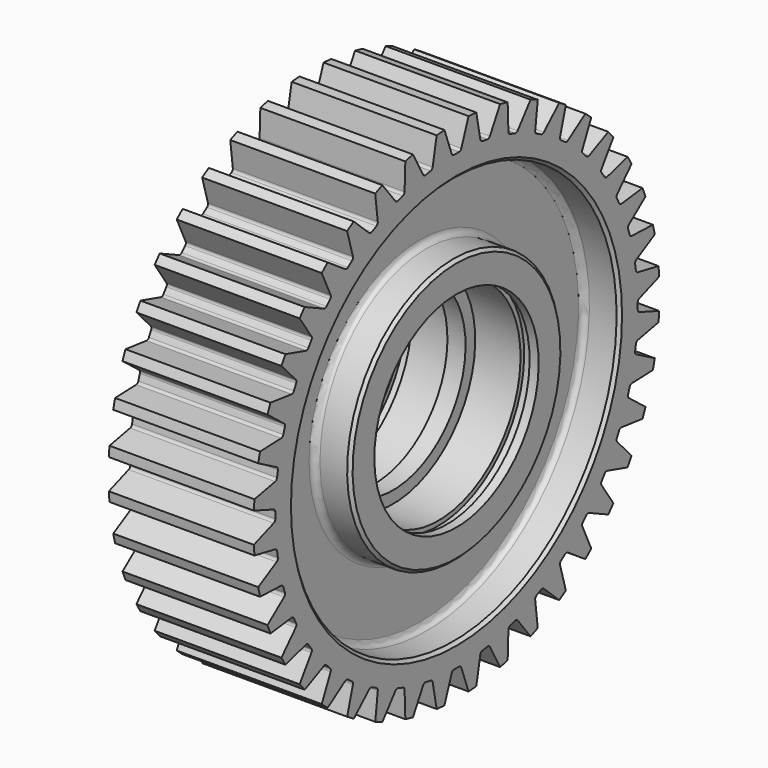
from build123d import *

# Parameters (mm, degrees)
F3_DEPTH = 25
F4_COUNT = 40
F4_ANGLE = 351
F5_SIZE2 = 1
F5_SIZE  = 1


with BuildPart() as f1:
    # F0 (on Front) → F1 (revolve)
    with BuildSketch(Plane.XZ):
        with BuildLine():
            Line((24, 84), (0, 84))
            Line((0, 84), (-24, 84))
            Line((-24, 84), (-24, 67.5))
            Line((-24, 67.5), (-14, 67.5))
            ThreePointArc((-14, 67.5), (-12.5857864376, 66.9142135624), (-12, 65.5))
            Line((-12, 65.5), (-12, 46))
            ThreePointArc((-12, 46), (-12.5857864376, 44.5857864376), (-14, 44))
            Line((-14, 44), (-24, 44))
            Line((-24, 44), (-24, 34))
            Line((-24, 34), (-21, 34))
            Line((-21, 34), (-21, 35.5))
            Line((-21, 35.5), (-18, 35.5))
            Line((-18, 35.5), (-18, 34))
            Line((-18, 34), (-3, 34))
            Line((-3, 34), (-3, 30))
            Line((-3, 30), (0, 30))
            Line((0, 30), (3, 30))
            Line((3, 30), (3, 34))
            Line((3, 34), (18, 34))
            Line((18, 34), (18, 35.5))
            Line((18, 35.5), (21, 35.5))
            Line((21, 35.5), (21, 34))
            Line((21, 34), (24, 34))
            Line((24, 34), (24, 44))
            Line((24, 44), (14, 44))
            ThreePointArc((14, 44), (12.5857864376, 44.5857864376), (12, 46))
            Line((12, 46), (12, 65.5))
            ThreePointArc((12, 65.5), (12.5857864376, 66.9142135624), (14, 67.5))
            Line((14, 67.5), (24, 67.5))
            Line((24, 67.5), (24, 84))
        make_face()
    revolve(axis=Axis((-12, 0, 0), (-1, 0, 0)))

    # F2 (on Right) → F3 (cut, symmetric)
    with BuildSketch(Plane.YZ):
        with BuildLine():
            ThreePointArc((-1.0412874443, 74.9927711213), (0, 75), (1.0412874443, 74.9927711213))
            ThreePointArc((1.0412874443, 74.9927711213), (1.6230472701, 75.1695606152), (1.9948638977, 75.650654593))
            Line((1.9948638977, 75.650654593), (4.98, 83.8522486282))
            ThreePointArc((4.98, 83.8522486282), (0, 84), (-4.98, 83.8522486282))
            Line((-4.98, 83.8522486282), (-1.9948638977, 75.650654593))
            ThreePointArc((-1.9948638977, 75.650654593), (-1.6230472701, 75.1695606152), (-1.0412874443, 74.9927711213))
        make_face()
    f3 = extrude(amount=F3_DEPTH, both=True, mode=Mode.SUBTRACT)

    # F4: F3 ×40 about axis
    f4_axis = Axis((24, 0, 0), (1, 0, 0))
    for i in range(1, F4_COUNT):
        add(f3.rotate(f4_axis, i * F4_ANGLE / (F4_COUNT - 1)), mode=Mode.SUBTRACT)

    # F5
    f5_edges = [f1.edges().sort_by_distance(p)[0] for p in [
        (24, 0, -67.5),
        (24, 0, -44),
        (-24, 0, -67.5),
        (-24, 0, -44),
    ]]
    chamfer(f5_edges, length=F5_SIZE, length2=F5_SIZE2)


solid = f1.part
